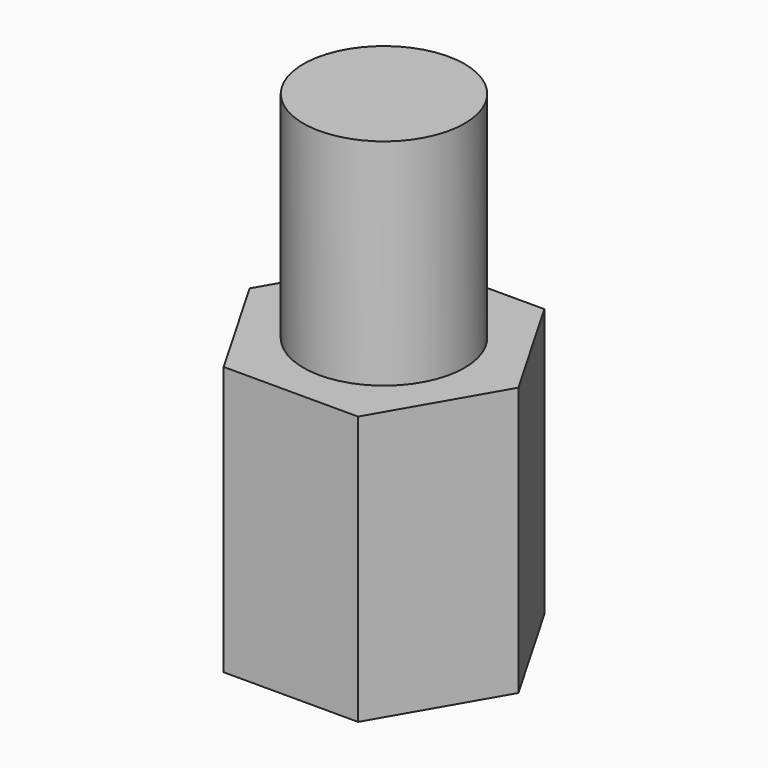
from build123d import *

# Parameters (mm, degrees)
F1_DEPTH = 5
F2_R     = 1.5
F3_DEPTH = 4
F4_R     = 1.5
F5_DEPTH = 4


with BuildPart() as f1:
    # F0 (on Top) → F1 (new body)
    with BuildSketch(Plane.XY):
        Polygon((1.25, -2.165064), (2.5, 0), (1.25, 2.165064), (-1.25, 2.165064), (-2.5, 0), (-1.25, -2.165064), align=None)
    extrude(amount=F1_DEPTH)

    # F2 (on face) → F3 (join)
    with BuildSketch(Plane.XY.offset(5)):
        Circle(F2_R)
    extrude(amount=F3_DEPTH)

    # F4 (on face) → F5 (cut)
    with BuildSketch(Plane.XY):
        Circle(F4_R)
    extrude(amount=F5_DEPTH, mode=Mode.SUBTRACT)


solid = f1.part
